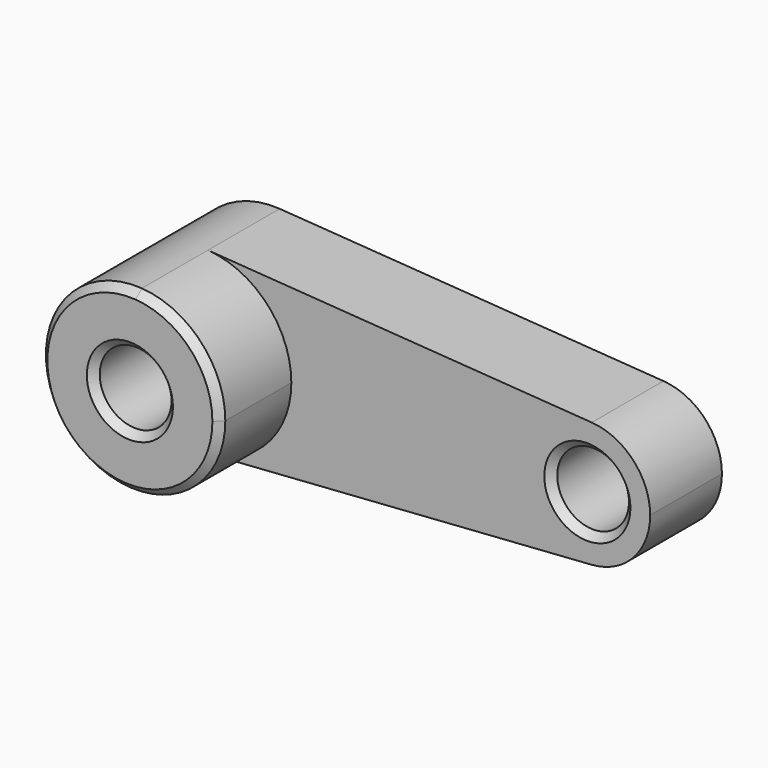
from build123d import *

# Parameters (mm, degrees)
F0_R     = 10
F1_DEPTH = 25
F2_DEPTH = 50
F3_SIZE  = 2


with BuildPart() as f1:
    # F0 (on Front) → F1 (new body)
    with BuildSketch(Plane.XZ):
        with BuildLine():
            ThreePointArc((1.744186, 24.939082), (18.283936, 17.049858), (25, 0))
            ThreePointArc((25, 0), (18.283936, -17.049858), (1.744186, -24.939082))
            Line((1.744186, -24.939082), (108.72093, -17.457357))
            ThreePointArc((108.72093, -17.457357), (90, 0), (108.72093, 17.457357))
            Line((108.72093, 17.457357), (1.744186, 24.939082))
        make_face()
        with BuildLine():
            ThreePointArc((1.744186, -24.939082), (18.283936, -17.049858), (25, 0))
            ThreePointArc((25, 0), (18.283936, 17.049858), (1.744186, 24.939082))
            ThreePointArc((1.744186, 24.939082), (-25, 0), (1.744186, -24.939082))
        make_face()
        Circle(F0_R, mode=Mode.SUBTRACT)
        with BuildLine():
            ThreePointArc((1.744186, 24.939082), (18.283936, 17.049858), (25, 0))
            ThreePointArc((25, 0), (18.283936, -17.049858), (1.744186, -24.939082))
            Line((1.744186, -24.939082), (108.72093, -17.457357))
            ThreePointArc((108.72093, -17.457357), (90, 0), (108.72093, 17.457357))
            Line((108.72093, 17.457357), (1.744186, 24.939082))
        make_face()
        with BuildLine():
            ThreePointArc((125, 0), (120.298755, 11.934901), (108.72093, 17.457357))
            ThreePointArc((108.72093, 17.457357), (90, 0), (108.72093, -17.457357))
            ThreePointArc((108.72093, -17.457357), (120.298755, -11.934901), (125, 0))
        make_face()
        with Locations((107.5, 0)):
            Circle(F0_R, mode=Mode.SUBTRACT)
    extrude(amount=F1_DEPTH)

    # F0 (on Front) → F2 (join)
    with BuildSketch(Plane.XZ):
        with BuildLine():
            ThreePointArc((1.744186, -24.939082), (18.283936, -17.049858), (25, 0))
            ThreePointArc((25, 0), (18.283936, 17.049858), (1.744186, 24.939082))
            ThreePointArc((1.744186, 24.939082), (-25, 0), (1.744186, -24.939082))
        make_face()
        Circle(F0_R, mode=Mode.SUBTRACT)
    extrude(amount=F2_DEPTH)

    # F3
    f3_edges = [f1.edges().sort_by_distance(p)[0] for p in [
        (-10, -50, 0),
        (-1.744186, -50, 24.939082),
        (97.5, -25, 0),
    ]]
    chamfer(f3_edges, length=F3_SIZE)


solid = f1.part
